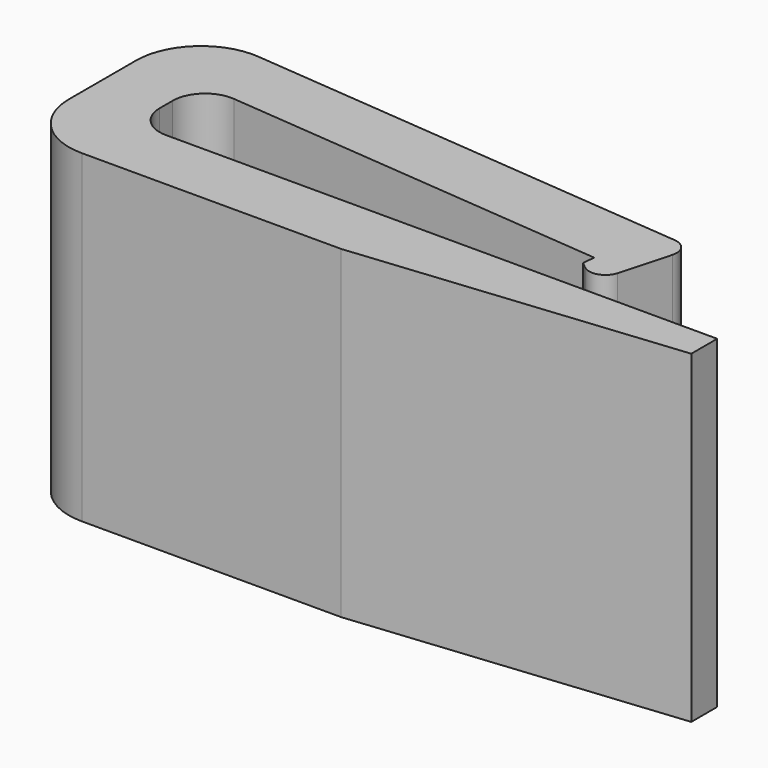
from build123d import *

# Parameters (mm, degrees)
F1_DEPTH = 10


with BuildPart() as f1:
    # F0 (on Top) → F1 (new body)
    with BuildSketch(Plane.XY):
        with BuildLine():
            Line((20, -0.205423), (20, 0.794577))
            Line((20, 0.794577), (3, 0.794577))
            ThreePointArc((3, 0.794577), (2.292893, 1.087471), (2, 1.794577))
            Line((2, 1.794577), (2, 2.298383))
            ThreePointArc((2, 2.298383), (2.32441, 3.03566), (3.087156, 3.294577))
            Line((3.087156, 3.294577), (15.041492, 2.248708))
            Line((15.041492, 2.248708), (15.007449, 1.859599))
            Line((15.007449, 1.859599), (15.191653, 1.710393))
            ThreePointArc((15.191653, 1.710393), (15.658825, 1.622733), (15.988214, 1.965424))
            Line((15.988214, 1.965424), (16.425026, 3.542053))
            ThreePointArc((16.425026, 3.542053), (16.353965, 3.960601), (15.986755, 4.173648))
            Line((15.986755, 4.173648), (2.174311, 5.38208))
            ThreePointArc((2.174311, 5.38208), (0.64882, 4.864246), (0, 3.389691))
            Line((0, 3.389691), (0, 0.794577))
            ThreePointArc((0, 0.794577), (0.585786, -0.619636), (2, -1.205423))
            Line((2, -1.205423), (10, -1.205423))
            Line((10, -1.205423), (20, -0.205423))
        make_face()
    extrude(amount=F1_DEPTH)


solid = f1.part
